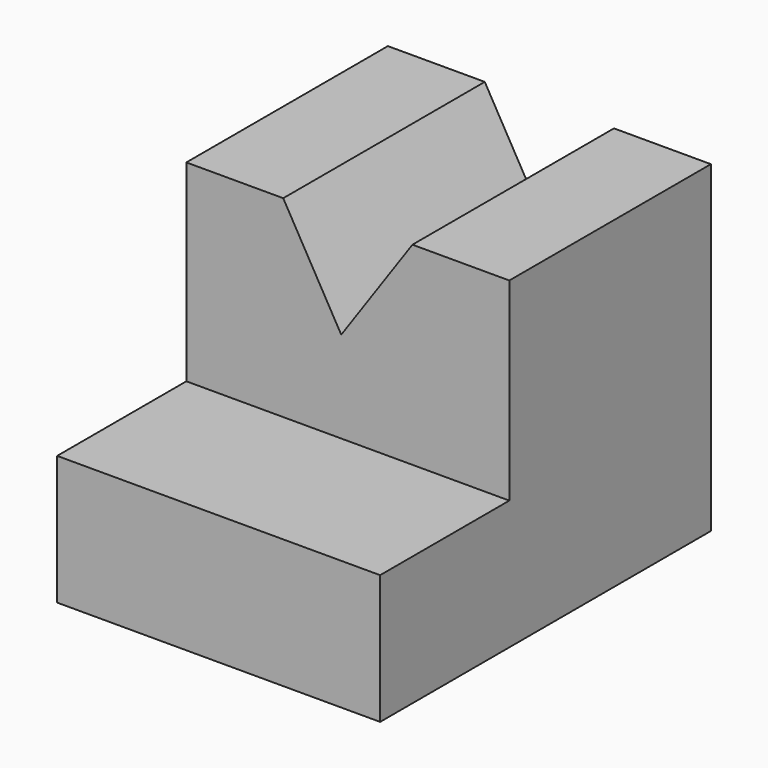
from build123d import *

# Parameters (mm, degrees)
F1_DEPTH = 39
F2_W     = 50
F2_H     = 20
F3_DEPTH = 25


with BuildPart() as f1:
    # F0 (on Front) → F1 (new body)
    with BuildSketch(Plane.XZ):
        Polygon((-17.41555, 33.59582), (-32.41555, 33.59582), (-32.41555, -16.235641), (17.58445, -16.235641), (17.58445, 33.764359), (2.58445, 33.764359), (-8.437501, 17.911185), align=None)
    extrude(amount=-F1_DEPTH)

    # F2 (on face) → F3 (join)
    with BuildSketch(Plane.XZ):
        with Locations((-7.41555, -6.235641)):
            Rectangle(F2_W, F2_H)
    extrude(amount=F3_DEPTH)


solid = f1.part
